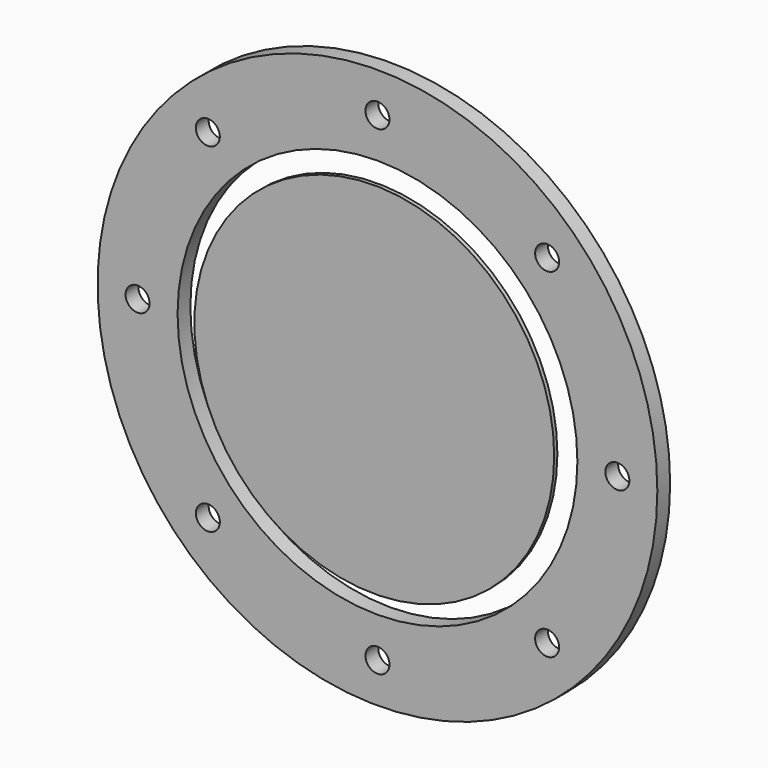
from build123d import *

# Parameters (mm, degrees)
F0_R     = 70
F0_R_2   = 5.5
F0_R_3   = 50
F0_R_4   = 3
F1_DEPTH = 4
F2_R     = 45
F3_DEPTH = 1


with BuildPart() as f1:
    # F0 (on Front) → F1 (new body)
    with BuildSketch(Plane.XZ):
        Circle(F0_R)
        with Locations((-42.426407, -42.426407)):
            Circle(F0_R_2, mode=Mode.SUBTRACT)
        with Locations((0, -60)):
            Circle(F0_R_2, mode=Mode.SUBTRACT)
        with Locations((42.426407, -42.426407)):
            Circle(F0_R_2, mode=Mode.SUBTRACT)
        with Locations((-60, 0)):
            Circle(F0_R_2, mode=Mode.SUBTRACT)
        with Locations((-42.426407, 42.426407)):
            Circle(F0_R_2, mode=Mode.SUBTRACT)
        Circle(F0_R_3, mode=Mode.SUBTRACT)
        with Locations((60, 0)):
            Circle(F0_R_2, mode=Mode.SUBTRACT)
        with Locations((0, 60)):
            Circle(F0_R_2, mode=Mode.SUBTRACT)
        with Locations((42.426407, 42.426407)):
            Circle(F0_R_2, mode=Mode.SUBTRACT)
        with Locations((-42.426407, 42.426407)):
            Circle(F0_R_2)
        with Locations((-42.426407, 42.426407)):
            Circle(F0_R_4, mode=Mode.SUBTRACT)
        with Locations((-60, 0)):
            Circle(F0_R_2)
        with Locations((-60, 0)):
            Circle(F0_R_4, mode=Mode.SUBTRACT)
        with Locations((0, 60)):
            Circle(F0_R_2)
        with Locations((0, 60)):
            Circle(F0_R_4, mode=Mode.SUBTRACT)
        with Locations((42.426407, 42.426407)):
            Circle(F0_R_2)
        with Locations((42.426407, 42.426407)):
            Circle(F0_R_4, mode=Mode.SUBTRACT)
        with Locations((60, 0)):
            Circle(F0_R_2)
        with Locations((60, 0)):
            Circle(F0_R_4, mode=Mode.SUBTRACT)
        with Locations((42.426407, -42.426407)):
            Circle(F0_R_2)
        with Locations((42.426407, -42.426407)):
            Circle(F0_R_4, mode=Mode.SUBTRACT)
        with Locations((0, -60)):
            Circle(F0_R_2)
        with Locations((0, -60)):
            Circle(F0_R_4, mode=Mode.SUBTRACT)
        with Locations((-42.426407, -42.426407)):
            Circle(F0_R_2)
        with Locations((-42.426407, -42.426407)):
            Circle(F0_R_4, mode=Mode.SUBTRACT)
    extrude(amount=-F1_DEPTH)


with BuildPart() as f3:
    # F2 (on Front) → F3 (new body)
    with BuildSketch(Plane.XZ):
        Circle(F2_R)
    extrude(amount=F3_DEPTH)


solid = Compound([f1.part, f3.part])
